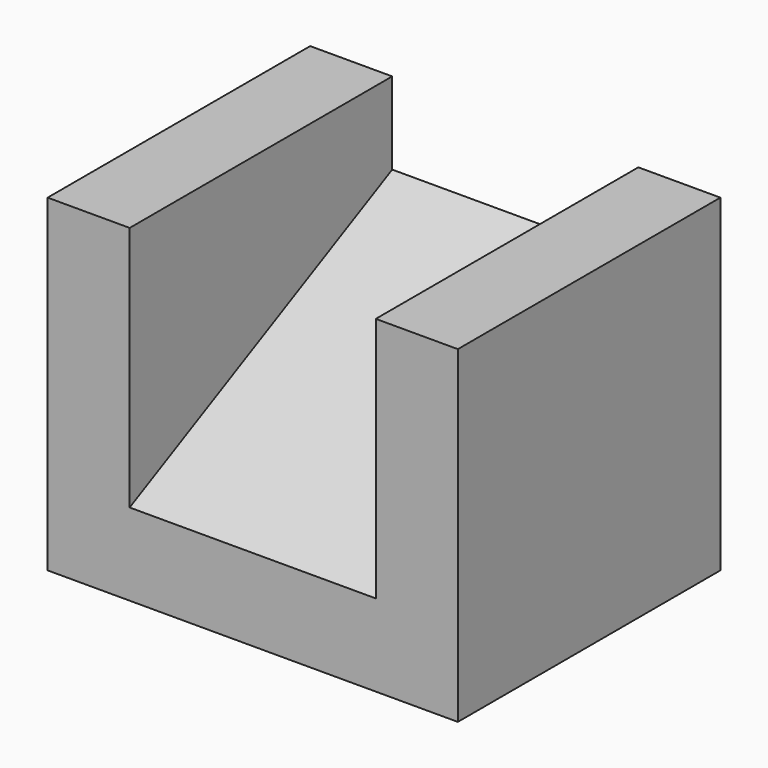
from build123d import *

# Parameters (mm, degrees)
F0_W     = 15
F0_H     = 15
F1_DEPTH = 10
F3_DEPTH = 15.001
F4_W     = 20
F4_H     = 20
F5_DEPTH = 5
F6_W     = 20
F6_H     = 20
F7_DEPTH = 5


with BuildPart() as f1:
    # F0 (on Front) → F1 (new body, symmetric)
    with BuildSketch(Plane.XZ):
        with Locations((7.5, 7.5)):
            Rectangle(F0_W, F0_H)
    extrude(amount=F1_DEPTH, both=True)

    # F2 (on face) → F3 (cut, through all)
    with BuildSketch(Plane(origin=(0, 0, 0), x_dir=(0, -1, 0), z_dir=(-1, 0, 0))):
        Polygon((10, 15), (-10, 15), (10, 5), align=None)
    extrude(amount=-F3_DEPTH, mode=Mode.SUBTRACT)

    # F4 (on face) → F5 (join)
    with BuildSketch(Plane(origin=(0, 0, 0), x_dir=(0, -1, 0), z_dir=(-1, 0, 0))):
        with Locations((0, 10)):
            Rectangle(F4_W, F4_H)
    extrude(amount=F5_DEPTH)

    # F6 (on face) → F7 (join)
    with BuildSketch(Plane.YZ.offset(15)):
        with Locations((0, 10)):
            Rectangle(F6_W, F6_H)
    extrude(amount=F7_DEPTH)


solid = f1.part
